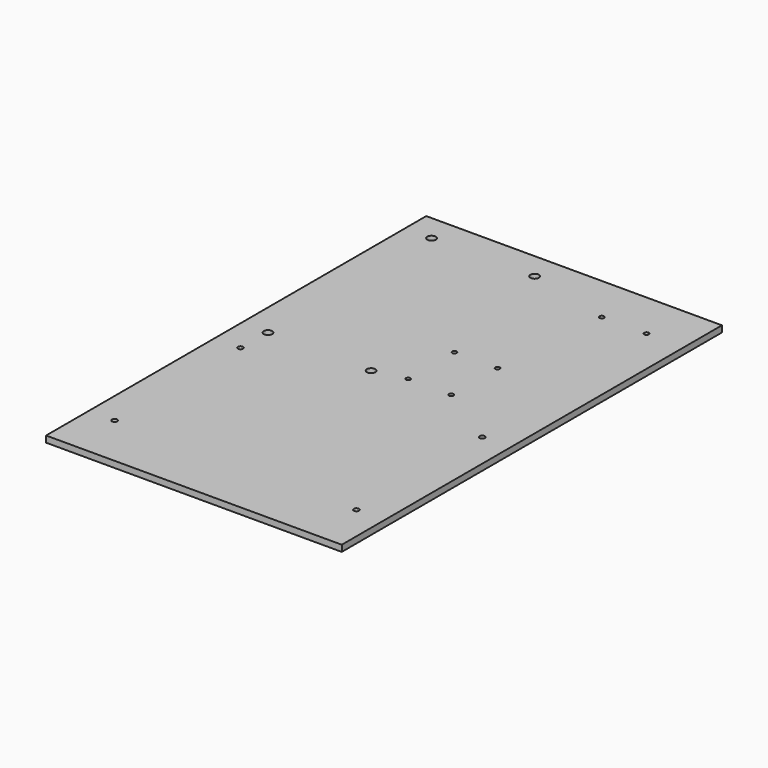
from build123d import *

# Parameters (mm, degrees)
F0_R     = 1.25
F0_W     = 26.4
F0_H     = 35.8
F0_R_2   = 2
F0_R_3   = 1.05
F0_W_2   = 15
F0_H_2   = 10
F0_R_4   = 1.1
F0_W_3   = 10
F0_H_3   = 20
F0_W_4   = 45
F1_DEPTH = 3


with BuildPart() as f1:
    # F0 (on Top) → F1 (new body)
    with BuildSketch(Plane.XY):
        Polygon((33.40298, -104.292824), (33.40298, -43.292824), (33.40298, -23.292824), (-87.59702, -23.292824), (-87.59702, -104.292824), align=None)
        with Locations((-84.34702, -101.042824)):
            Circle(F0_R, mode=Mode.SUBTRACT)
        with Locations((-84.34702, -26.542824)):
            Circle(F0_R, mode=Mode.SUBTRACT)
        with Locations((30.15298, -101.042824)):
            Circle(F0_R, mode=Mode.SUBTRACT)
        with Locations((30.15298, -26.542824)):
            Circle(F0_R, mode=Mode.SUBTRACT)
        Polygon((-81.59702, 98.707176), (-96.59702, 98.707176), (-96.59702, -126.292824), (43.40298, -126.292824), (43.40298, -43.292824), (33.40298, -43.292824), (33.40298, -104.292824), (-87.59702, -104.292824), (-87.59702, -23.292824), (33.40298, -23.292824), (43.40298, -23.292824), (43.40298, 98.707176), (-36.59702, 98.707176), (-36.59702, 88.707176), (-35.19702, 88.707176), (-32.59702, 88.707176), (-32.59702, 86.107176), (-32.59702, -10.692824), (-32.59702, -13.292824), (-35.19702, -13.292824), (-83.99702, -13.292824), (-86.59702, -13.292824), (-86.59702, -10.692824), (-86.59702, 86.107176), (-86.59702, 86.507176), (-86.59702, 88.707176), (-84.39702, 88.707176), (-83.99702, 88.707176), (-81.59702, 88.707176), align=None)
        Polygon((-23.161016, -10.092824), (-23.161016, 22.907176), (-17.161016, 22.907176), (-17.161016, 32.907176), (-2.161016, 32.907176), (-2.161016, 22.907176), (2.838984, 22.907176), (2.838984, -10.092824), align=None, mode=Mode.SUBTRACT)
        with Locations((15.20298, 60.807176)):
            Rectangle(F0_W, F0_H, mode=Mode.SUBTRACT)
        Polygon((-36.59702, 88.707176), (-81.59702, 88.707176), (-83.99702, 88.707176), (-84.39702, 88.707176), (-86.59702, 88.707176), (-86.59702, 86.507176), (-86.59702, 86.107176), (-86.59702, -10.692824), (-86.59702, -13.292824), (-83.99702, -13.292824), (-35.19702, -13.292824), (-32.59702, -13.292824), (-32.59702, -10.692824), (-32.59702, 86.107176), (-32.59702, 88.707176), (-35.19702, 88.707176), align=None)
        with Locations((-83.99702, -10.692824)):
            Circle(F0_R_2, mode=Mode.SUBTRACT)
        with Locations((-35.19702, -10.692824)):
            Circle(F0_R_2, mode=Mode.SUBTRACT)
        with Locations((-83.99702, 86.107176)):
            Circle(F0_R_2, mode=Mode.SUBTRACT)
        with Locations((-35.19702, 86.107176)):
            Circle(F0_R_2, mode=Mode.SUBTRACT)
        Polygon((-17.161016, 22.907176), (-23.161016, 22.907176), (-23.161016, -10.092824), (2.838984, -10.092824), (2.838984, 22.907176), (-2.161016, 22.907176), align=None)
        with Locations((-20.361016, -7.292824)):
            Circle(F0_R_3, mode=Mode.SUBTRACT)
        with Locations((0.038984, -7.292824)):
            Circle(F0_R_3, mode=Mode.SUBTRACT)
        with Locations((-20.361016, 20.107176)):
            Circle(F0_R_3, mode=Mode.SUBTRACT)
        with Locations((0.038984, 20.107176)):
            Circle(F0_R_3, mode=Mode.SUBTRACT)
        with Locations((-9.661016, 27.907176)):
            Rectangle(F0_W_2, F0_H_2)
        with Locations((15.20298, 60.807176)):
            Rectangle(F0_W, F0_H)
        with Locations((4.60298, 76.107176)):
            Circle(F0_R_4, mode=Mode.SUBTRACT)
        with Locations((25.80298, 76.107176)):
            Circle(F0_R_4, mode=Mode.SUBTRACT)
        with Locations((38.40298, -33.292824)):
            Rectangle(F0_W_3, F0_H_3)
        with Locations((-59.09702, 93.707176)):
            Rectangle(F0_W_4, F0_H_2)
    extrude(amount=F1_DEPTH)


solid = f1.part
